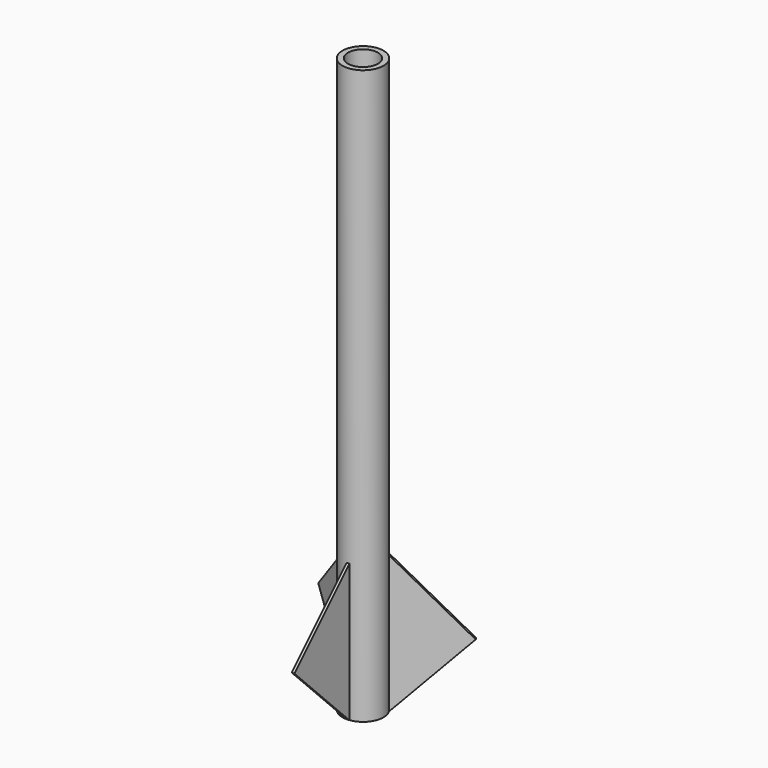
from build123d import *

# Parameters (mm, degrees)
F0_R          = 9.525
F2_DEPTH      = 266.7
F1_R          = 6.985
F3_DEPTH      = 266.7
F3_DEPTH_BACK = 266.7
F5_DEPTH      = 1.27
F6_ANGLE      = 120
F7_ANGLE      = 120


with BuildPart() as f2:
    # F0 (on Top) → F2 (new body)
    with BuildSketch(Plane.XY):
        Circle(F0_R)
    extrude(amount=F2_DEPTH)

    # F1 (on Top) → F3 (cut, two sides)
    with BuildSketch(Plane.XY) as f3_sk:
        Circle(F1_R)
    extrude(amount=-F3_DEPTH, mode=Mode.SUBTRACT)
    extrude(f3_sk.sketch, amount=F3_DEPTH_BACK, mode=Mode.SUBTRACT)


with BuildPart() as f5:
    # F4 (on Right) → F5 (new body)
    with BuildSketch(Plane.YZ):
        Polygon((-41.3807639852, 32.025), (-9.5007639852, 32.025), (-9.5007639852, 64.05), align=None)
        Polygon((-41.3807639852, 32.025), (-9.5007639852, 0), (-9.5007639852, 32.025), align=None)
    extrude(amount=F5_DEPTH)


with BuildPart() as f6_1:
    # F6: copy of F5
    add(f5.part.rotate(Axis((0, 0, 0), (0, 0, -1)), F6_ANGLE))


with BuildPart() as f7_1:
    # F7: copy of F6_1
    add(f6_1.part.rotate(Axis((0, 0, 0), (0, 0, -1)), F7_ANGLE))


solid = Compound([f2.part, f5.part, f6_1.part, f7_1.part])
